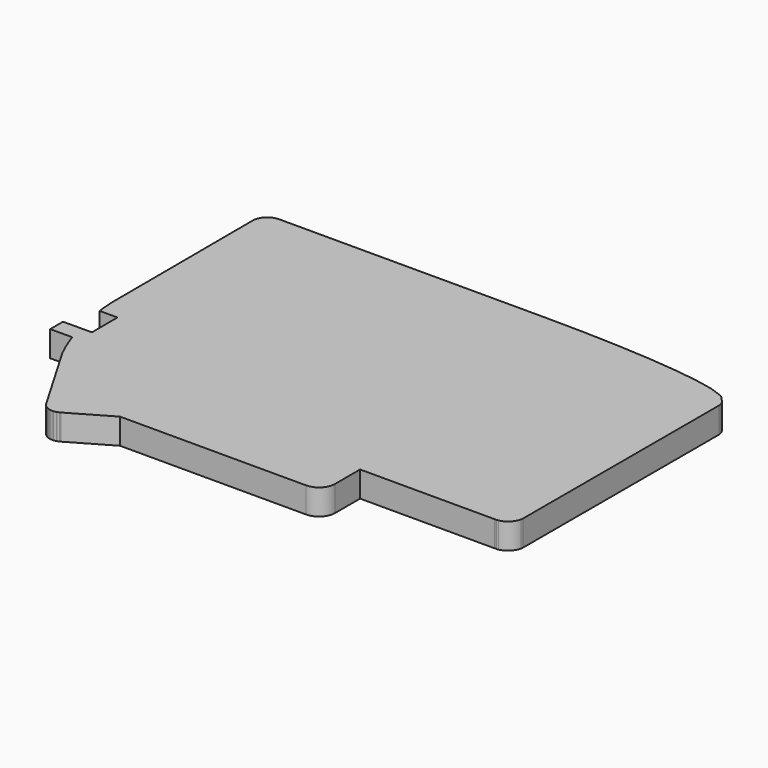
from build123d import *

# Parameters (mm, degrees)
PAD009_DEPTH    = 8
POCKET005_DEPTH = 6
SKETCH044_W     = 20
SKETCH044_H     = 15
PAD010_DEPTH    = 3
SKETCH045_R     = 1.45
POCKET006_DEPTH = 149.538323
SKETCH046_W     = 10
SKETCH046_H     = 20
POCKET007_DEPTH = 6
SKETCH047_W     = 5
SKETCH047_H     = 8
PAD011_DEPTH    = 4
PAD012_DEPTH    = 3


with BuildPart() as part:
    # Sketch042 → Pad009 (new body)
    with BuildSketch(Plane.XY):
        with BuildLine():
            ThreePointArc((14.331049, 53.958076), (14.329401, 54.015983), (14.328712, 54.073909))
            Line((14.131233, 108.554683), (14.328712, 54.073909))
            ThreePointArc((14.131233, 108.554683), (14.131214, 108.572623), (14.131287, 108.590561))
            ThreePointArc((18.658021, 113.117293), (15.46591, 111.782672), (14.131287, 108.590561))
            ThreePointArc((18.658021, 113.117293), (18.669616, 113.117351), (18.681211, 113.11737))
            Line((101.94388, 113.11737), (18.681211, 113.11737))
            ThreePointArc((101.94388, 113.11737), (101.963094, 113.117317), (101.982307, 113.117159))
            Line((113.720987, 112.988269), (101.982307, 113.117159))
            ThreePointArc((113.720987, 112.988269), (113.760941, 112.987602), (113.800884, 112.986479))
            Line((124.730854, 112.616759), (113.800884, 112.986479))
            ThreePointArc((124.730854, 112.616759), (124.775077, 112.614983), (124.819274, 112.612649))
            Line((134.707394, 112.027539), (124.819274, 112.612649))
            ThreePointArc((134.707394, 112.027539), (134.760897, 112.023961), (134.814338, 112.019564))
            Line((143.427438, 111.244494), (134.814338, 112.019564))
            ThreePointArc((143.427438, 111.244494), (143.500111, 111.23719), (143.572616, 111.22837))
            Line((150.677556, 110.28877), (143.572616, 111.22837))
            ThreePointArc((150.677556, 110.28877), (150.793483, 110.271459), (150.908765, 110.250277))
            Line((156.272395, 109.171587), (150.908765, 110.250277))
            ThreePointArc((156.272395, 109.171587), (156.5104, 109.115), (156.743872, 109.041926))
            Line((160.133022, 107.849586), (156.743872, 109.041926))
            ThreePointArc((160.133022, 107.849586), (160.895244, 107.471834), (161.543817, 106.92135))
            Line((162.725347, 105.64078), (161.543817, 106.92135))
            ThreePointArc((162.725347, 105.64078), (163.413102, 104.540852), (163.653, 103.265981))
            Line((163.653, 103.265981), (163.62255, 27.110501))
            ThreePointArc((163.62255, 27.110501), (163.60451, 26.756997), (163.550857, 26.407123))
            ThreePointArc((159.660239, 22.516538), (162.188858, 23.878516), (163.550857, 26.407123))
            ThreePointArc((159.660239, 22.516538), (159.323063, 22.464205), (158.982393, 22.444954))
            Line((158.982393, 22.444954), (158.507799, 22.441306))
            ThreePointArc((158.507799, 22.441306), (158.494348, 22.441228), (158.480896, 22.441202))
            Line((116.551548, 22.441202), (158.480896, 22.441202))
            ThreePointArc((116.551548, 22.441202), (116.524186, 22.427455), (116.51234, 22.399217))
            Line((116.51234, 22.399217), (116.51234, 12.693214))
            ThreePointArc((111.511608, 7.69248), (115.048134, 9.156687), (116.51234, 12.693214))
            Line((53.496079, 7.69248), (111.511608, 7.69248))
            Line((40.903121, 0.40324), (53.496079, 7.69248))
            ThreePointArc((40.903121, 0.40324), (40.82134, 0.357354), (40.738359, 0.313675))
            Line((40.570469, 0.228155), (40.738359, 0.313675))
            ThreePointArc((40.570469, 0.228155), (40.28044, 0.096677), (39.97966, -0.007897))
            Line((39.821, -0.055087), (39.97966, -0.007897))
            ThreePointArc((39.821, -0.055087), (39.4375, -0.145999), (39.04621, -0.193218))
            Line((38.89726, -0.202728), (39.04621, -0.193218))
            ThreePointArc((38.89726, -0.202728), (38.443297, -0.202212), (37.99322, -0.142943))
            Line((37.85444, -0.115413), (37.99322, -0.142943))
            ThreePointArc((37.85444, -0.115413), (37.403892, 0.005662), (36.973449, 0.185583))
            Line((36.845299, 0.249493), (36.973449, 0.185583))
            ThreePointArc((36.845299, 0.249493), (36.477576, 0.461653), (36.138245, 0.716774))
            Line((36.021215, 0.816424), (36.138245, 0.716774))
            ThreePointArc((36.021215, 0.816424), (35.764889, 1.057957), (35.534135, 1.324028))
            Line((35.428675, 1.458768), (35.534135, 1.324028))
            ThreePointArc((35.428675, 1.458768), (35.268511, 1.680768), (35.126187, 1.914607))
            Line((35.047407, 2.056233), (35.126187, 1.914607))
            Line((21.664757, 24.948224), (35.047407, 2.056233))
            ThreePointArc((21.664757, 24.948224), (21.600836, 25.062414), (21.541228, 25.178913))
            ThreePointArc((14.331049, 53.958076), (16.428723, 39.190834), (21.541228, 25.178913))
        make_face()
    extrude(amount=PAD009_DEPTH)

    # Sketch043 → Pocket005 (cut)
    with BuildSketch(Plane.XY):
        with BuildLine():
            ThreePointArc((17.329026, 54.068236), (19.338784, 39.919906), (24.237019, 26.495239))
            ThreePointArc((24.254666, 26.462283), (24.245534, 26.478596), (24.237019, 26.495239))
            Line((24.254666, 26.462283), (37.653506, 3.542597))
            Line((37.653506, 3.542597), (37.747881, 3.372935))
            ThreePointArc((37.791094, 3.307815), (37.768213, 3.33953), (37.747881, 3.372935))
            Line((37.791094, 3.307815), (37.896554, 3.173075))
            ThreePointArc((37.966136, 3.100561), (37.929518, 3.135065), (37.896554, 3.173075))
            Line((37.966136, 3.100561), (38.083166, 3.000911))
            ThreePointArc((38.184174, 2.934156), (38.131642, 2.964465), (38.083166, 3.000911))
            Line((38.184174, 2.934156), (38.312324, 2.870246))
            ThreePointArc((38.43818, 2.827247), (38.373816, 2.844543), (38.312324, 2.870246))
            Line((38.43818, 2.827247), (38.57696, 2.799717))
            ThreePointArc((38.706109, 2.791176), (38.641257, 2.79125), (38.57696, 2.799717))
            Line((38.706109, 2.791176), (38.855059, 2.800686))
            ThreePointArc((38.965743, 2.820419), (38.910957, 2.807432), (38.855059, 2.800686))
            Line((38.965743, 2.820419), (39.124403, 2.867609))
            ThreePointArc((39.208804, 2.901331), (39.167371, 2.882548), (39.124403, 2.867609))
            Line((39.208804, 2.901331), (39.376694, 2.986851))
            ThreePointArc((39.400232, 2.999646), (39.388549, 2.993091), (39.376694, 2.986851))
            Line((39.400232, 2.999646), (52.690443, 10.69248))
            Line((52.690443, 10.69248), (111.512203, 10.69248))
            ThreePointArc((111.512203, 10.69248), (112.926813, 11.278007), (113.51234, 12.692618))
            Line((113.51234, 22.413147), (113.51234, 12.692618))
            ThreePointArc((116.515571, 25.441202), (114.395073, 24.540983), (113.51234, 22.413147))
            Line((116.515571, 25.441202), (158.480896, 25.441202))
            ThreePointArc((158.484739, 25.441217), (158.482818, 25.441206), (158.480896, 25.441202))
            Line((158.959333, 25.444865), (158.484739, 25.441217))
            ThreePointArc((159.056169, 25.455091), (159.008, 25.447615), (158.959333, 25.444865))
            ThreePointArc((159.056169, 25.455091), (160.067546, 25.999845), (160.612308, 27.011218))
            ThreePointArc((160.62255, 27.111701), (160.619973, 27.0612), (160.612308, 27.011218))
            Line((160.653, 103.26718), (160.62255, 27.111701))
            ThreePointArc((160.520478, 103.606437), (160.618729, 103.449305), (160.653, 103.26718))
            Line((160.520478, 103.606437), (159.338948, 104.887007))
            ThreePointArc((159.137406, 105.019612), (159.246295, 104.965648), (159.338948, 104.887007))
            Line((159.137406, 105.019612), (155.748256, 106.211952))
            ThreePointArc((155.680902, 106.230475), (155.714903, 106.222391), (155.748256, 106.211952))
            Line((155.680902, 106.230475), (150.317272, 107.309165))
            ThreePointArc((150.284242, 107.314664), (150.300803, 107.312191), (150.317272, 107.309165))
            Line((150.284242, 107.314664), (143.179302, 108.254264))
            ThreePointArc((143.158563, 108.256568), (143.168944, 108.255524), (143.179302, 108.254264))
            Line((143.158563, 108.256568), (134.545463, 109.031638))
            ThreePointArc((134.530185, 109.032777), (134.537828, 109.032266), (134.545463, 109.031638))
            Line((134.530185, 109.032777), (124.642065, 109.617887))
            ThreePointArc((124.629433, 109.618474), (124.635751, 109.61822), (124.642065, 109.617887))
            Line((124.629433, 109.618474), (113.699463, 109.988194))
            ThreePointArc((113.68805, 109.98845), (113.693757, 109.988355), (113.699463, 109.988194))
            Line((113.68805, 109.98845), (101.94937, 110.11734))
            ThreePointArc((101.94388, 110.11737), (101.946625, 110.117362), (101.94937, 110.11734))
            Line((101.94388, 110.11737), (18.681211, 110.11737))
            ThreePointArc((18.677898, 110.117359), (18.679554, 110.117367), (18.681211, 110.11737))
            ThreePointArc((18.677898, 110.117359), (17.58723, 109.661351), (17.131221, 108.570683))
            ThreePointArc((17.131213, 108.565558), (17.131211, 108.56812), (17.131221, 108.570683))
            Line((17.131213, 108.565558), (17.328692, 54.084784))
            ThreePointArc((17.329026, 54.068236), (17.328791, 54.076508), (17.328692, 54.084784))
        make_face()
    extrude(amount=POCKET005_DEPTH, mode=Mode.SUBTRACT)

    # Sketch044 → Pad010 (new body)
    with BuildSketch(Plane(origin=(14.524525, 0.052648, 0), x_dir=(0.003625, -0.999993, 0), z_dir=(-0.999993, -0.003625, 0))):
        with Locations((-75.54892, 0.5)):
            Rectangle(SKETCH044_W, SKETCH044_H)
    extrude(amount=-PAD010_DEPTH)

    # Sketch045 (on Face112 of Pad010) → Pocket006 (cut, through all)
    with BuildSketch(Plane(origin=(14.524525, 0.052648, 0), x_dir=(0.003625, -0.999993, 0), z_dir=(-0.999993, -0.003625, 0))):
        with Locations((-75.54892, -2.25)):
            Circle(SKETCH045_R)
    extrude(amount=-POCKET006_DEPTH, mode=Mode.SUBTRACT)

    # Sketch046 (on Face3 of Pocket006) → Pocket007 (cut)
    with BuildSketch(Plane(origin=(14.524525, 0.052648, 0), x_dir=(0.003625, -0.999993, 0), z_dir=(-0.999993, -0.003625, 0))):
        with Locations((-43.04892, -2)):
            Rectangle(SKETCH046_W, SKETCH046_H)
    extrude(amount=-POCKET007_DEPTH, mode=Mode.SUBTRACT)

    # Sketch047 (on Face3 of Pocket007) → Pad011 (new body)
    with BuildSketch(Plane(origin=(14.524525, 0.052648, 0), x_dir=(0.003625, -0.999993, 0), z_dir=(-0.999993, -0.003625, 0))):
        with Locations((-35.54892, 4)):
            Rectangle(SKETCH047_W, SKETCH047_H)
    extrude(amount=-PAD011_DEPTH)

    # Sketch047 (on Face3 of Pocket007) → Pad012 (new body)
    with BuildSketch(Plane(origin=(14.524525, 0.052648, 0), x_dir=(0.003625, -0.999993, 0), z_dir=(-0.999993, -0.003625, 0))):
        with Locations((-35.54892, 4)):
            Rectangle(SKETCH047_W, SKETCH047_H)
    extrude(amount=PAD012_DEPTH)


solid = part.part
